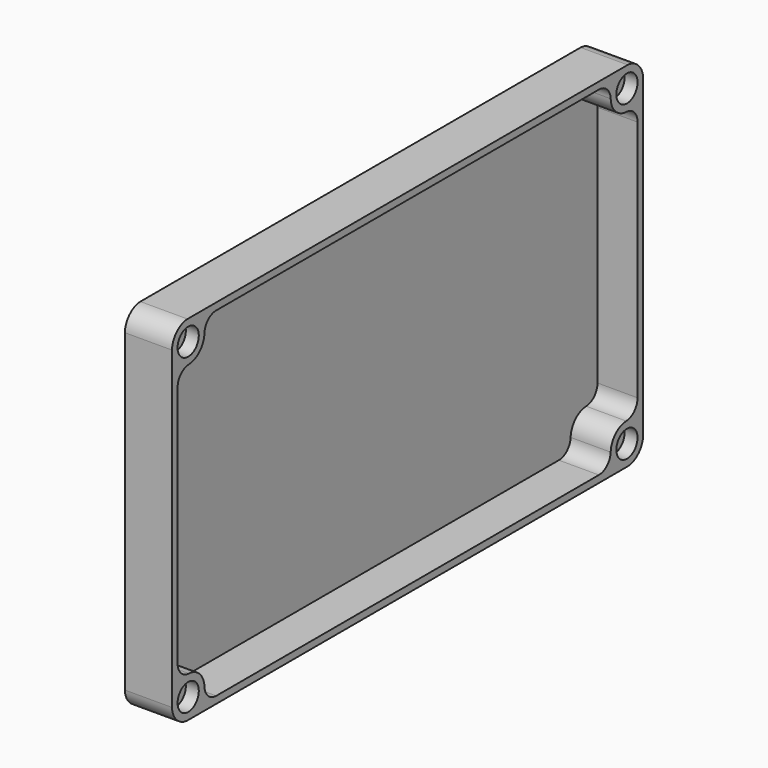
from build123d import *

# Parameters (mm, degrees)
F0_R     = 2.25
F1_DEPTH = 8
F2_DEPTH = 1.2
F3_DEPTH = 5.8


with BuildPart() as f1:
    # F0 (on Right) → F1 (new body)
    with BuildSketch(Plane.YZ):
        with BuildLine():
            Line((-50, 0), (-48.8, 0))
            Line((-48.8, 0), (-48.8, 20.601839))
            ThreePointArc((-48.8, 20.601839), (-48.104502, 22.332091), (-46.404982, 23.099634))
            ThreePointArc((-46.404982, 23.099634), (-44.108069, 24.108069), (-43.099634, 26.404982))
            ThreePointArc((-43.099634, 26.404982), (-42.332091, 28.104502), (-40.601839, 28.8))
            Line((-40.601839, 28.8), (0, 28.8))
            Line((0, 28.8), (0, 30))
            Line((0, 30), (-46.396522, 30))
            Line((-46.396522, 30), (-46.703478, 30))
            ThreePointArc((-46.703478, 30), (-48.991931, 28.991931), (-50, 26.703478))
            Line((-50, 26.703478), (-50, 26.396522))
            Line((-50, 26.396522), (-50, 0))
        make_face()
        with Locations((-46.55, 26.55)):
            Circle(F0_R, mode=Mode.SUBTRACT)
    extrude(amount=F1_DEPTH)

    # F0 (on Right) → F2 (join)
    with BuildSketch(Plane.YZ):
        with BuildLine():
            Line((-48.8, 0), (0, 0))
            Line((0, 0), (0, 28.8))
            Line((0, 28.8), (-40.601839, 28.8))
            ThreePointArc((-40.601839, 28.8), (-42.332091, 28.104502), (-43.099634, 26.404982))
            ThreePointArc((-43.099634, 26.404982), (-44.108069, 24.108069), (-46.404982, 23.099634))
            ThreePointArc((-46.404982, 23.099634), (-48.104502, 22.332091), (-48.8, 20.601839))
            Line((-48.8, 20.601839), (-48.8, 0))
        make_face()
    extrude(amount=F2_DEPTH)

    # F0 (on Right) → F3 (join)
    with BuildSketch(Plane.YZ):
        with Locations((-46.55, 26.55)):
            Circle(F0_R)
    extrude(amount=F3_DEPTH)

    # F4: F1 across plane


with BuildPart() as f1_1:
    add(f1.part)
    add(f1.part.mirror(Plane.XZ))

    # F5: F1 across plane


with BuildPart() as f1_2:
    add(f1_1.part)
    add(f1_1.part.mirror(Plane.XY))


solid = f1_2.part
